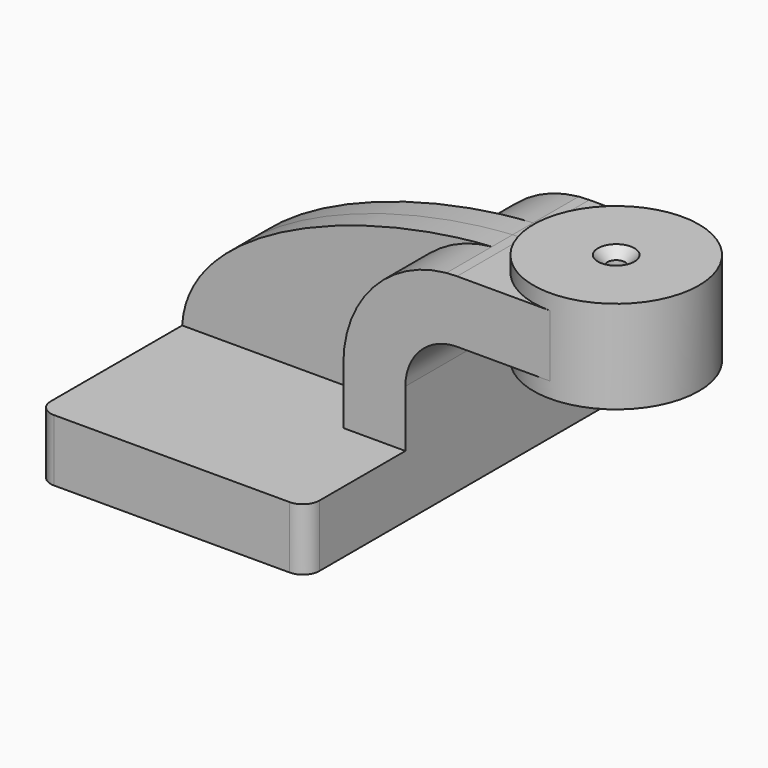
from build123d import *

# Parameters (mm, degrees)
F1_DEPTH       = 63.5
F0_W           = 25.4
F0_H           = 19.05
F2_DEPTH       = 25.4
F3_DEPTH       = 7.9375
F5_R           = 5.08
F7_D           = 5.5
F7_CSINK_D     = 11.2
F7_CSINK_ANGLE = 90


with BuildPart() as f1:
    # F0 (on Front) → F1 (new body, symmetric)
    with BuildSketch(Plane.XZ):
        Polygon((22.225, 9.525), (-41.275, 9.525), (-41.275, -9.525), (41.275, -9.525), (41.275, 9.525), align=None)
    extrude(amount=F1_DEPTH, both=True)

    # F0 (on Front) → F2 (join, symmetric)
    with BuildSketch(Plane.XZ):
        with BuildLine():
            Line((22.225, 27.0002), (22.225, 9.525))
            Line((22.225, 9.525), (41.275, 9.525))
            Line((41.275, 9.525), (41.275, 27.0002))
            ThreePointArc((41.275, 27.0002), (45.9246798487, 38.2255201513), (57.15, 42.8752))
            Line((57.15, 42.8752), (60.325, 42.8752))
            Line((60.325, 42.8752), (60.325, 61.9252))
            Line((60.325, 61.9252), (57.15, 61.9252))
            add(Edge.make_bspline(
                [(53.8854342407, 61.7722898912), (54.9842067368, 61.8365871986), (56.0728453275, 61.8876096574), (57.15, 61.9252)],
                knots=[108.5245810491, 108.5245810491, 108.5245810491, 108.5245810491, 111.5045361635, 111.5045361635, 111.5045361635, 111.5045361635], degree=3))
            ThreePointArc((53.8854342407, 61.7722898912), (31.3258777096, 50.5133948686), (22.225, 27.0002))
        make_face()
        with Locations((73.025, 52.4002)):
            Rectangle(F0_W, F0_H)
    extrude(amount=F2_DEPTH, both=True)

    # F0 (on Front) → F3 (join, symmetric)
    with BuildSketch(Plane.XZ):
        with BuildLine():
            add(Edge.make_bspline(
                [(-41.275, 9.525), (-39.5856284224, 39.4828766469), (13.870125209, 59.4306981306), (53.8854342407, 61.7722898912)],
                knots=[0, 0, 0, 0, 108.5245810491, 108.5245810491, 108.5245810491, 108.5245810491], degree=3))
            Line((-41.275, 9.525), (22.225, 9.525))
            Line((22.225, 9.525), (22.225, 27.0002))
            ThreePointArc((22.225, 27.0002), (31.3258777096, 50.5133948686), (53.8854342407, 61.7722898912))
        make_face()
    extrude(amount=F3_DEPTH, both=True)

    # F0 (on Front) → F4 (revolve)
    with BuildSketch(Plane.XZ):
        Polygon((85.725, 66.675), (85.725, 61.9252), (85.725, 42.8752), (85.725, 38.1), (111.125, 38.1), (111.125, 66.675), align=None)
    revolve(axis=Axis((85.725, 0, 52.3875), (0, 0, 1)))

    # F5
    f5_edges = [f1.edges().sort_by_distance(p)[0] for p in [
        (41.275, -63.5, 0),
        (-41.275, -63.5, 0),
        (41.275, 63.5, 0),
        (-41.275, 63.5, 0),
    ]]
    fillet(f5_edges, radius=F5_R)

    # F7 (through all)
    with Locations(Plane.XY.offset(66.675)):
        with Locations((85.725, 0)):
            CounterSinkHole(F7_D / 2, F7_CSINK_D / 2, counter_sink_angle=F7_CSINK_ANGLE)


solid = f1.part
